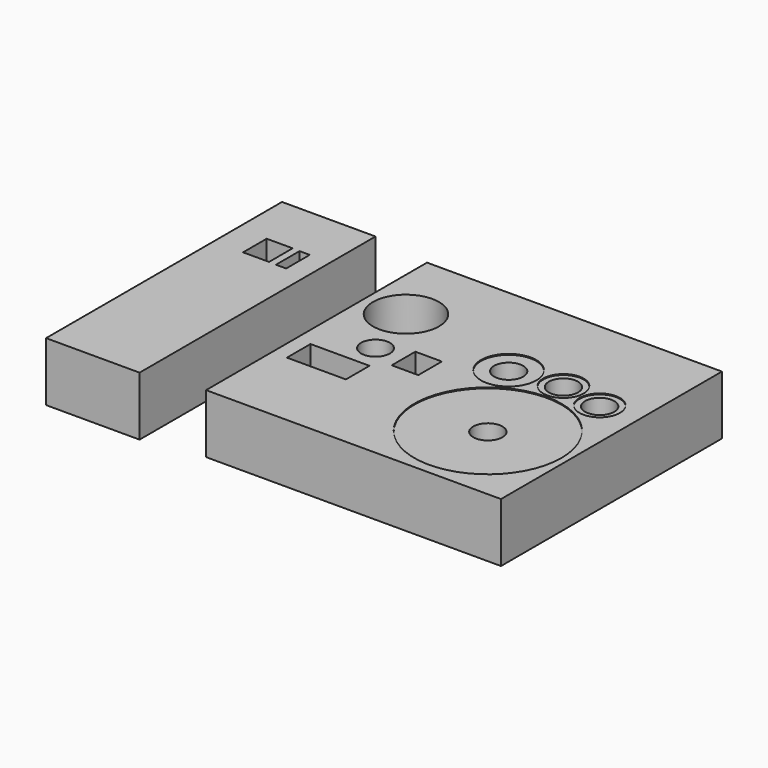
from build123d import *

# Parameters (mm, degrees)
F0_W     = 40.259
F0_H     = 127
F0_W_2   = 11.176
F0_H_2   = 12.7
F0_W_3   = 4.3942
F0_W_4   = 127
F0_H_3   = 118.927948
F0_W_5   = 25.4
F0_R     = 31.6865
F0_R_2   = 6.223
F0_R_3   = 14.224
F0_W_6   = 11.43
F0_R_4   = 11.90625
F0_R_5   = 8.73125
F1_DEPTH = 25.4
F0_R_6   = 6.2865
F2_DEPTH = 25


with BuildPart() as f1:
    # F0 (on Top) → F1 (new body)
    with BuildSketch(Plane.XY):
        with Locations((-32.8295, 0)):
            Rectangle(F0_W, F0_H)
        with Locations((-34.671, 33.02)):
            Rectangle(F0_W_2, F0_H_2, mode=Mode.SUBTRACT)
        with Locations((-23.790153, 32.866836)):
            Rectangle(F0_W_3, F0_H_2, mode=Mode.SUBTRACT)
        with Locations((76.2, 0)):
            Rectangle(F0_W_4, F0_H_3)
        with Locations((31.851405, -17.657179)):
            Rectangle(F0_W_5, F0_H_2, mode=Mode.SUBTRACT)
        with Locations((105.203167, -23.408983)):
            Circle(F0_R, mode=Mode.SUBTRACT)
        with Locations((38.1, 0)):
            Circle(F0_R_2, mode=Mode.SUBTRACT)
        with Locations((30.648712, 25.716327)):
            Circle(F0_R_3, mode=Mode.SUBTRACT)
        with Locations((55.88, 0)):
            Rectangle(F0_W_6, F0_H_2, mode=Mode.SUBTRACT)
        with Locations((83.081469, 15.438872)):
            Circle(F0_R_4, mode=Mode.SUBTRACT)
        with Locations((123.00843, 14.539615)):
            Circle(F0_R_5, mode=Mode.SUBTRACT)
        with Locations((104.66361, 17.956788)):
            Circle(F0_R_5, mode=Mode.SUBTRACT)
    extrude(amount=F1_DEPTH)


with BuildPart() as f2:
    # F0 (on Top) → F2 (new body)
    with BuildSketch(Plane.XY):
        with Locations((105.203167, -23.408983)):
            Circle(F0_R)
        with Locations((105.203167, -23.408983)):
            Circle(F0_R_6, mode=Mode.SUBTRACT)
        with Locations((83.081469, 15.438872)):
            Circle(F0_R_4)
        with Locations((83.081469, 15.438872)):
            Circle(F0_R_6, mode=Mode.SUBTRACT)
        with Locations((104.66361, 17.956788)):
            Circle(F0_R_5)
        with Locations((104.66361, 17.956788)):
            Circle(F0_R_6, mode=Mode.SUBTRACT)
        with Locations((123.00843, 14.539615)):
            Circle(F0_R_5)
        with Locations((123.00843, 14.539615)):
            Circle(F0_R_6, mode=Mode.SUBTRACT)
    extrude(amount=F2_DEPTH)


solid = Compound([f1.part, f2.part])
